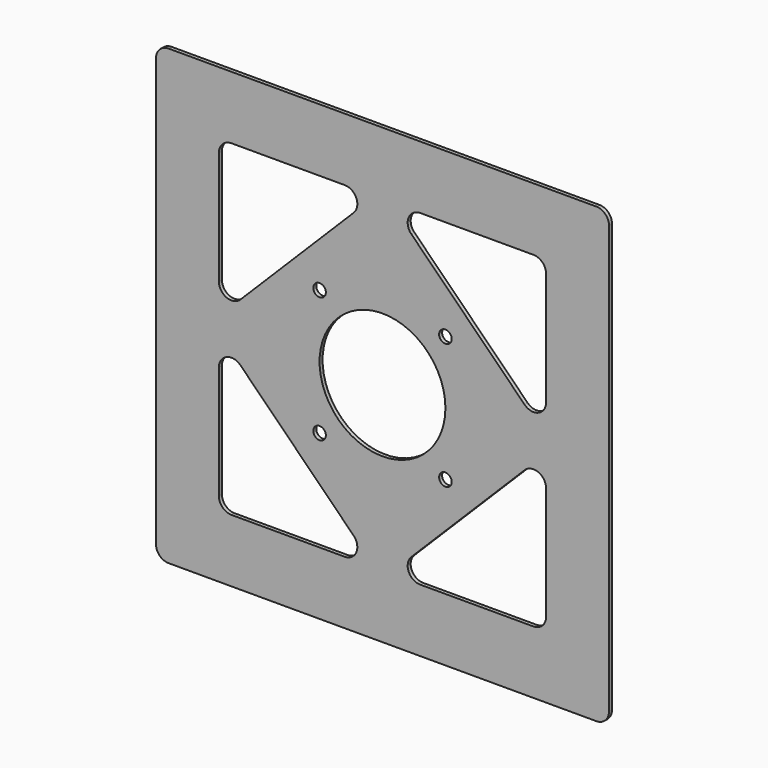
from build123d import *

# Parameters (mm, degrees)
F0_R     = 2.5
F0_R_2   = 25
F1_DEPTH = 1.5


with BuildPart() as f1:
    # F0 (on Front) → F1 (new body)
    with BuildSketch(Plane.XZ):
        with BuildLine():
            ThreePointArc((0, 5), (1.464466, 1.464466), (5, 0))
            Line((5, 0), (175, 0))
            ThreePointArc((175, 0), (178.535534, 1.464466), (180, 5))
            Line((180, 5), (180, 175))
            ThreePointArc((180, 175), (178.535534, 178.535534), (175, 180))
            Line((175, 180), (5, 180))
            ThreePointArc((5, 180), (1.464466, 178.535534), (0, 175))
            Line((0, 175), (0, 5))
        make_face()
        with BuildLine():
            ThreePointArc((25, 75), (28.086583, 79.619398), (33.535534, 78.535534))
            Line((33.535534, 78.535534), (78.535534, 33.535534))
            ThreePointArc((78.535534, 33.535534), (79.619398, 28.086583), (75, 25))
            Line((75, 25), (30, 25))
            ThreePointArc((30, 25), (26.464466, 26.464466), (25, 30))
            Line((25, 30), (25, 75))
        make_face(mode=Mode.SUBTRACT)
        with Locations((65, 65)):
            Circle(F0_R, mode=Mode.SUBTRACT)
        with BuildLine():
            Line((101.464466, 33.535534), (146.464466, 78.535534))
            ThreePointArc((146.464466, 78.535534), (151.913417, 79.619398), (155, 75))
            Line((155, 75), (155, 30))
            ThreePointArc((155, 30), (153.535534, 26.464466), (150, 25))
            Line((150, 25), (105, 25))
            ThreePointArc((105, 25), (100.380602, 28.086583), (101.464466, 33.535534))
        make_face(mode=Mode.SUBTRACT)
        with Locations((115, 65)):
            Circle(F0_R, mode=Mode.SUBTRACT)
        with Locations((65, 115)):
            Circle(F0_R, mode=Mode.SUBTRACT)
        with BuildLine():
            ThreePointArc((25, 150), (26.464466, 153.535534), (30, 155))
            Line((30, 155), (75, 155))
            ThreePointArc((75, 155), (79.619398, 151.913417), (78.535534, 146.464466))
            Line((78.535534, 146.464466), (33.535534, 101.464466))
            ThreePointArc((33.535534, 101.464466), (28.086583, 100.380602), (25, 105))
            Line((25, 105), (25, 150))
        make_face(mode=Mode.SUBTRACT)
        with Locations((90, 90)):
            Circle(F0_R_2, mode=Mode.SUBTRACT)
        with Locations((115, 115)):
            Circle(F0_R, mode=Mode.SUBTRACT)
        with BuildLine():
            ThreePointArc((155, 105), (151.913417, 100.380602), (146.464466, 101.464466))
            Line((146.464466, 101.464466), (101.464466, 146.464466))
            ThreePointArc((101.464466, 146.464466), (100.380602, 151.913417), (105, 155))
            Line((105, 155), (150, 155))
            ThreePointArc((150, 155), (153.535534, 153.535534), (155, 150))
            Line((155, 150), (155, 105))
        make_face(mode=Mode.SUBTRACT)
    extrude(amount=F1_DEPTH)


solid = f1.part
